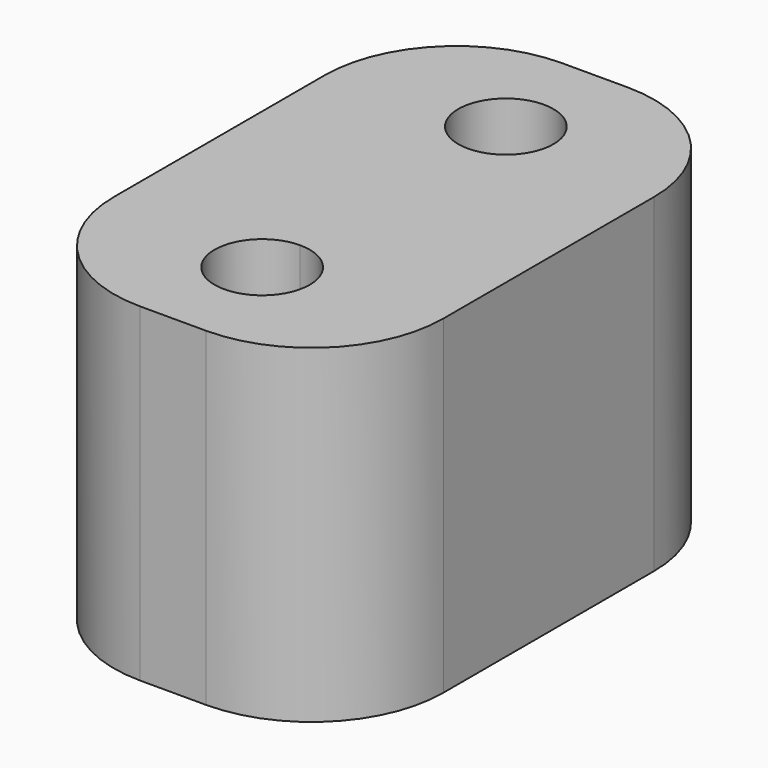
from build123d import *

# Parameters (mm, degrees)
F1_DEPTH = 15.875


with BuildPart() as f1:
    # F0 (on Top) → F1 (new body)
    with BuildSketch(Plane.XY):
        with BuildLine():
            ThreePointArc((0, 5.04825), (1.620936, 5.719664), (2.29235, 7.3406))
            ThreePointArc((2.29235, 7.3406), (-1.620936, 8.961536), (0, 5.04825))
        make_face()
        with BuildLine():
            ThreePointArc((2.29235, -7.3406), (1.620936, -5.719664), (0, -5.04825))
            ThreePointArc((0, -5.04825), (-1.620936, -8.961536), (2.29235, -7.3406))
        make_face()
        with BuildLine():
            Line((1.5875, 12.7), (-1.5875, 12.7))
            ThreePointArc((-1.5875, 12.7), (-6.077628, 10.840128), (-7.9375, 6.35))
            Line((-7.9375, 6.35), (-7.9375, -6.35))
            ThreePointArc((-7.9375, -6.35), (-6.077628, -10.840128), (-1.5875, -12.7))
            Line((-1.5875, -12.7), (1.5875, -12.7))
            ThreePointArc((1.5875, -12.7), (6.077628, -10.840128), (7.9375, -6.35))
            Line((7.9375, -6.35), (7.9375, 6.35))
            ThreePointArc((7.9375, 6.35), (6.077628, 10.840128), (1.5875, 12.7))
        make_face()
        with BuildLine():
            ThreePointArc((2.29235, -7.3406), (-1.620936, -8.961536), (0, -5.04825))
            ThreePointArc((0, -5.04825), (1.620936, -5.719664), (2.29235, -7.3406))
        make_face(mode=Mode.SUBTRACT)
        with BuildLine():
            ThreePointArc((0, 5.04825), (-1.620936, 8.961536), (2.29235, 7.3406))
            ThreePointArc((2.29235, 7.3406), (1.620936, 5.719664), (0, 5.04825))
        make_face(mode=Mode.SUBTRACT)
    extrude(amount=F1_DEPTH)


solid = f1.part
